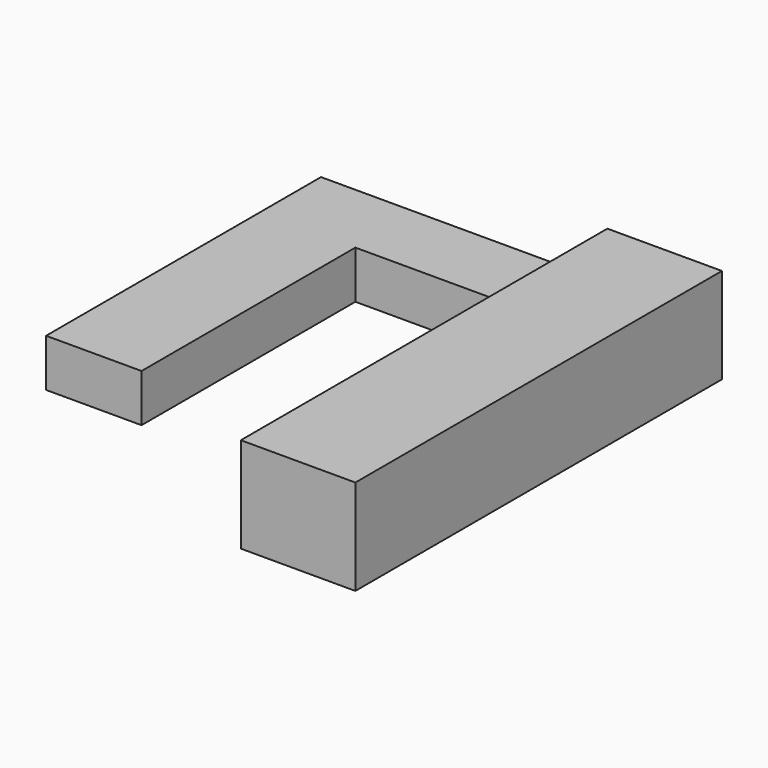
from build123d import *

# Parameters (mm, degrees)
F0_W     = 254
F0_H     = 101.6
F1_DEPTH = 63.5
F2_DEPTH = 127


with BuildPart() as f1:
    # F0 (on Top) → F1 (new body)
    with BuildSketch(Plane.XY):
        Polygon((-142.707766, 235.445518), (-142.707766, 337.045518), (-269.707766, 337.045518), (-269.707766, -120.154482), (-142.707766, -120.154482), align=None)
        with Locations((-15.707766, 286.245518)):
            Rectangle(F0_W, F0_H)
    extrude(amount=F1_DEPTH)

    # F0 (on Top) → F2 (join)
    with BuildSketch(Plane.XY):
        Polygon((263.692234, 337.045518), (111.292234, 337.045518), (111.292234, 235.445518), (111.292234, -272.554482), (263.692234, -272.554482), align=None)
    extrude(amount=F2_DEPTH)


solid = f1.part
